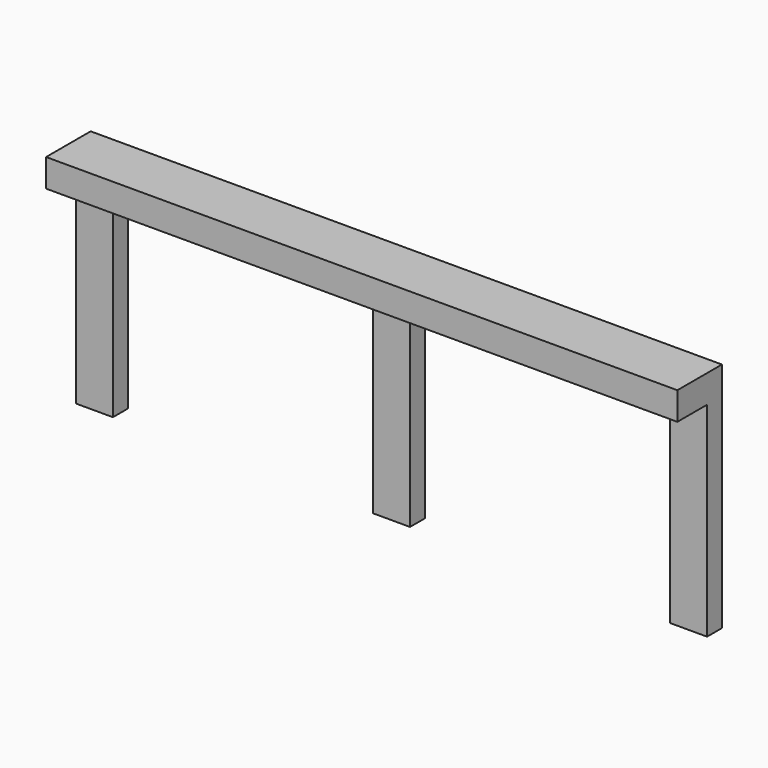
from build123d import *

# Parameters (mm, degrees)
F0_W          = 50.8
F0_H          = 254
F0_H_2        = 50.8
F1_DEPTH      = 25.4
F2_W          = 863.6
F2_H          = 12.7
F2_H_2        = 25.4
F3_DEPTH      = 50.8
F3_DEPTH_BACK = 25.4


with BuildPart() as f1:
    # F0 (on Front) → F1 (new body)
    with BuildSketch(Plane.XZ):
        with Locations((0, -89.99076)):
            Rectangle(F0_W, F0_H)
        Polygon((-25.4, 37.00924), (25.4, 37.00924), (381, 37.00924), (381, 87.80924), (-381, 87.80924), (-381, 37.00924), align=None)
        with Locations((406.4, 62.40924)):
            Rectangle(F0_W, F0_H_2)
        with Locations((406.4, -89.99076)):
            Rectangle(F0_W, F0_H)
        with Locations((-406.4, -89.99076)):
            Rectangle(F0_W, F0_H)
        with Locations((-406.4, 62.40924)):
            Rectangle(F0_W, F0_H_2)
    extrude(amount=F1_DEPTH)

    # F2 (on face) → F3 (join, two sides)
    with BuildSketch(Plane.XZ.offset(25.4)) as f3_sk:
        with Locations((0, 94.15924)):
            Rectangle(F2_W, F2_H)
        with Locations((0, 75.10924)):
            Rectangle(F2_W, F2_H_2)
    extrude(amount=F3_DEPTH)
    extrude(f3_sk.sketch, amount=-F3_DEPTH_BACK)


solid = f1.part
